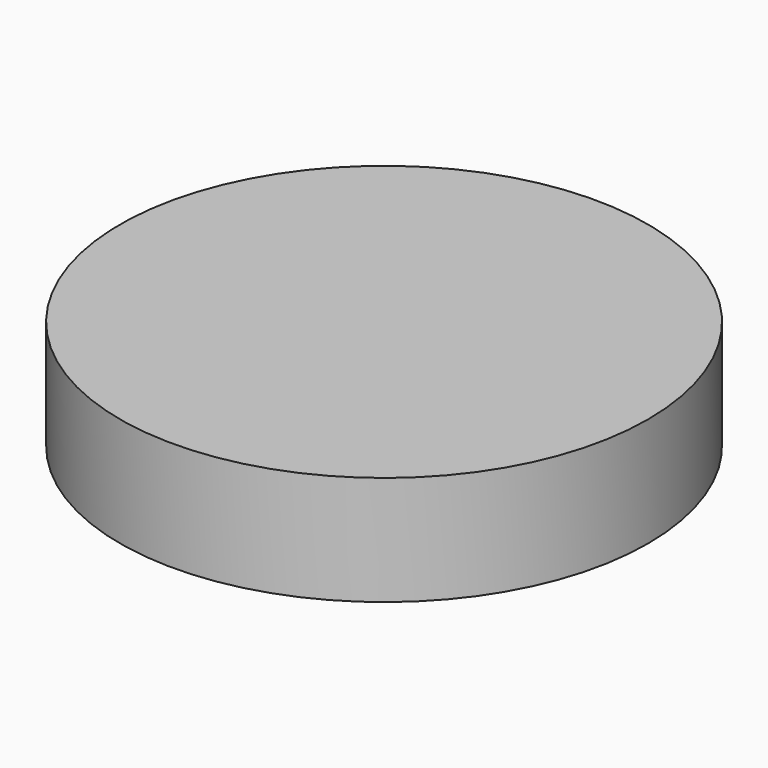
from build123d import *

# Parameters (mm, degrees)
SKETCH_R  = 24.15
PAD_DEPTH = 10


with BuildPart() as part:
    # Sketch → Pad (new body)
    with BuildSketch(Plane.XY):
        Circle(SKETCH_R)
    extrude(amount=PAD_DEPTH)


solid = part.part
